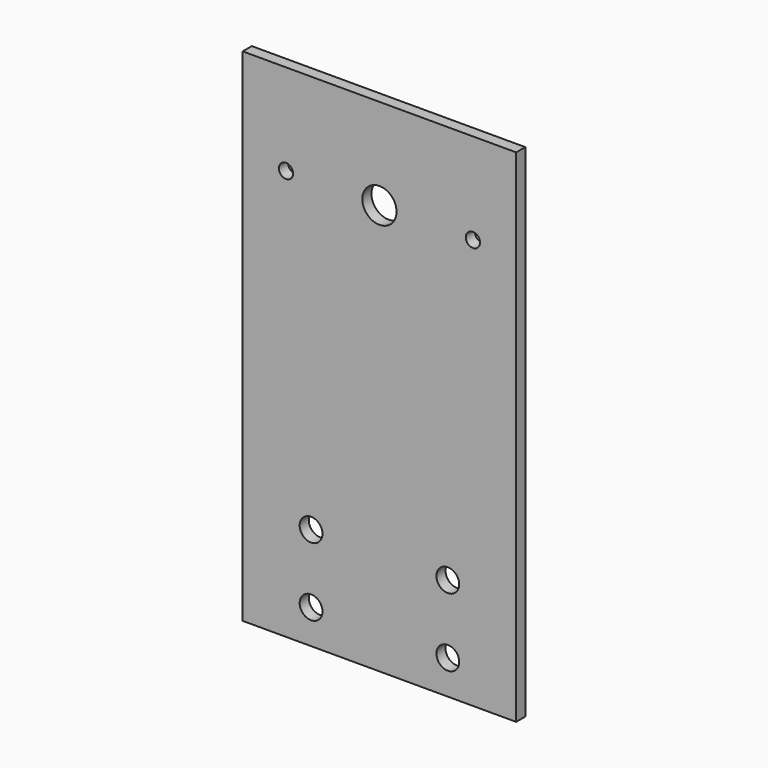
from build123d import *

# Parameters (mm, degrees)
F0_W     = 76.2
F0_H     = 139.7
F0_R     = 1.9812
F0_R_2   = 4.7625
F1_DEPTH = 3.175
F2_R     = 3.175
F3_DEPTH = 3.176


with BuildPart() as f1:
    # F0 (on Front) → F1 (new body)
    with BuildSketch(Plane.XZ):
        with Locations((0, -44.45)):
            Rectangle(F0_W, F0_H)
        with Locations((-26.035, 0)):
            Circle(F0_R, mode=Mode.SUBTRACT)
        Circle(F0_R_2, mode=Mode.SUBTRACT)
        with Locations((26.035, 0)):
            Circle(F0_R, mode=Mode.SUBTRACT)
    extrude(amount=F1_DEPTH)

    # F2 (on face) → F3 (cut, through all)
    with BuildSketch(Plane.XZ.offset(3.175)):
        with Locations((19.05, -85.725)):
            Circle(F2_R)
        with Locations((19.05, -104.775)):
            Circle(F2_R)
        with Locations((-19.05, -85.725)):
            Circle(F2_R)
        with Locations((-19.05, -104.775)):
            Circle(F2_R)
    extrude(amount=-F3_DEPTH, mode=Mode.SUBTRACT)


solid = f1.part
